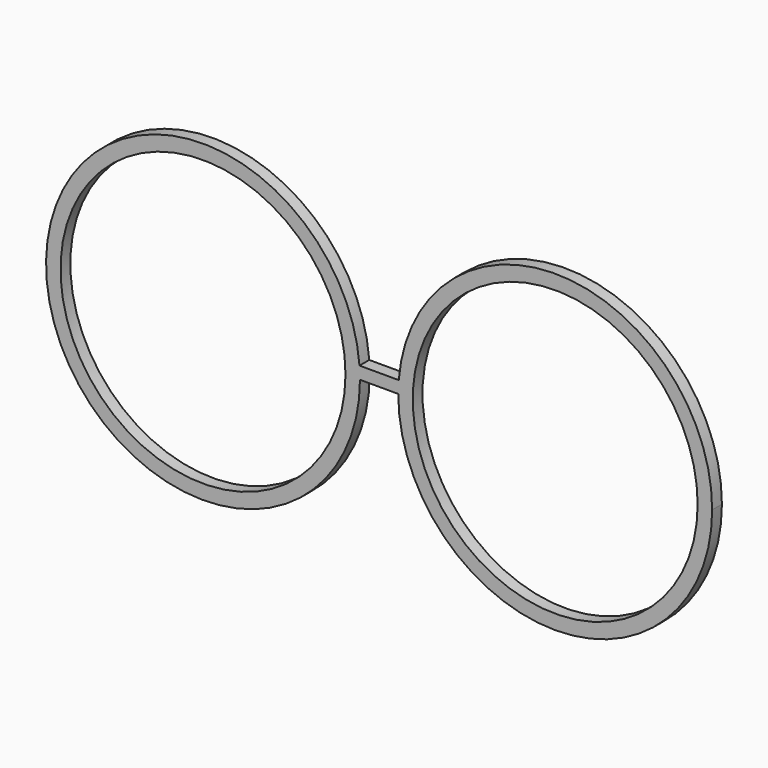
from build123d import *

# Parameters (mm, degrees)
F0_R     = 29.621678
F1_DEPTH = 2.54


with BuildPart() as f1:
    # F0 (on Front) → F1 (new body)
    with BuildSketch(Plane.XZ):
        with BuildLine():
            ThreePointArc((-4.079253, 2.562959), (-69.22048, -1.28247), (-3.978453, 0))
            ThreePointArc((-3.978453, 0), (-4.003663, 1.28247), (-4.079253, 2.562959))
        make_face()
        with Locations((-36.612071, 0)):
            Circle(F0_R, mode=Mode.SUBTRACT)
        with BuildLine():
            ThreePointArc((-4.079253, 2.562959), (-4.003663, 1.28247), (-3.978453, 0))
            Line((-3.978453, 0), (0, 0))
            Line((0, 0), (3.978453, 0))
            ThreePointArc((3.978453, 0), (4.003663, 1.28247), (4.079253, 2.562959))
            Line((4.079253, 2.562959), (0, 2.562959))
            Line((0, 2.562959), (-4.079253, 2.562959))
        make_face()
        with BuildLine():
            ThreePointArc((4.079253, 2.562959), (4.003663, 1.28247), (3.978453, 0))
            ThreePointArc((3.978453, 0), (36.612071, -32.633618), (69.245689, 0))
            ThreePointArc((69.245689, 0), (37.894541, 32.608409), (4.079253, 2.562959))
        make_face()
        with Locations((36.612071, 0)):
            Circle(F0_R, mode=Mode.SUBTRACT)
    extrude(amount=F1_DEPTH)


solid = f1.part
